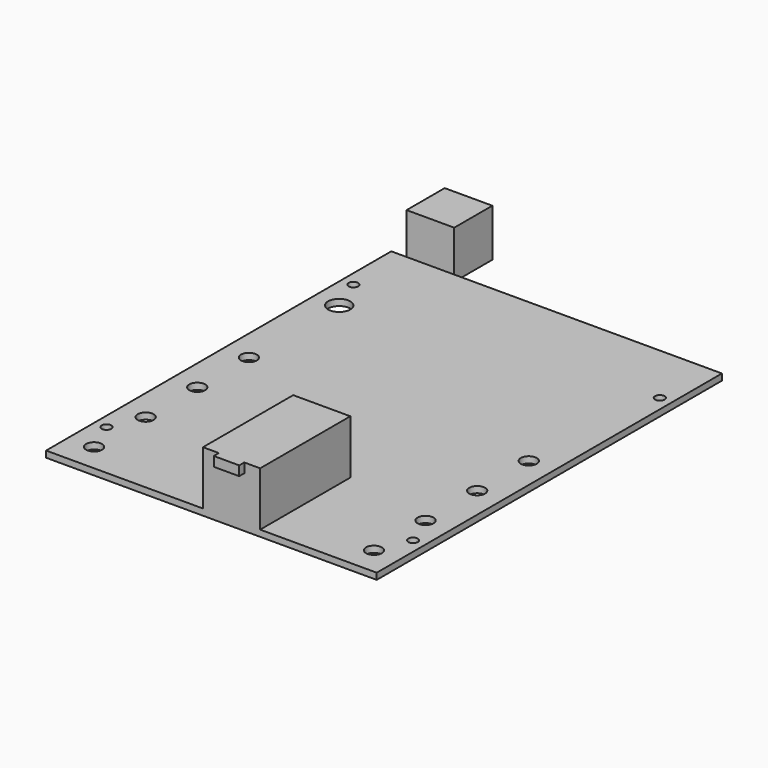
from build123d import *

# Parameters (mm, degrees)
F0_W          = 104.14
F0_H          = 135.89
F0_R          = 2.5
F0_R_2        = 1.5
F0_R_3        = 3.5
F1_DEPTH      = 2
F3_W          = 15
F3_H          = 15
F4_DEPTH      = 13
F4_DEPTH_BACK = 2
F5_W          = 18
F5_H          = 35.5
F6_DEPTH      = 17
F8_W          = 8
F8_H          = 3
F9_DEPTH      = 2


with BuildPart() as f1:
    # F0 (on Top) → F1 (new body)
    with BuildSketch(Plane.XY):
        Rectangle(F0_W, F0_H)
        with Locations((-44.07, -59.055)):
            Circle(F0_R, mode=Mode.SUBTRACT)
        with Locations((-48.26, -48.895)):
            Circle(F0_R_2, mode=Mode.SUBTRACT)
        with Locations((-44.07, -38.735)):
            Circle(F0_R, mode=Mode.SUBTRACT)
        with Locations((-44.07, -18.415)):
            Circle(F0_R, mode=Mode.SUBTRACT)
        with Locations((44.07, -59.055)):
            Circle(F0_R, mode=Mode.SUBTRACT)
        with Locations((48.26, -48.895)):
            Circle(F0_R_2, mode=Mode.SUBTRACT)
        with Locations((44.07, -38.735)):
            Circle(F0_R, mode=Mode.SUBTRACT)
        with Locations((44.07, -18.415)):
            Circle(F0_R, mode=Mode.SUBTRACT)
        with Locations((-44.07, 1.905)):
            Circle(F0_R, mode=Mode.SUBTRACT)
        with Locations((-44.07, 37.445)):
            Circle(F0_R_3, mode=Mode.SUBTRACT)
        with Locations((-48.26, 48.265)):
            Circle(F0_R_2, mode=Mode.SUBTRACT)
        with Locations((44.07, 1.905)):
            Circle(F0_R, mode=Mode.SUBTRACT)
        with Locations((48.26, 48.265)):
            Circle(F0_R_2, mode=Mode.SUBTRACT)
    extrude(amount=F1_DEPTH)

    # F3 (on offset) → F4 (join, two sides)
    with BuildSketch(Plane.XY.offset(2)) as f4_sk:
        with Locations((-39.74, 75.445)):
            Rectangle(F3_W, F3_H)
    extrude(amount=F4_DEPTH)
    extrude(f4_sk.sketch, amount=-F4_DEPTH_BACK)

    # F5 (on offset) → F6 (join)
    with BuildSketch(Plane.XY.offset(2)):
        with Locations((6.35, -50.195)):
            Rectangle(F5_W, F5_H)
    extrude(amount=F6_DEPTH)

    # F8 (on offset) → F9 (join)
    with BuildSketch(Plane.XZ.offset(67.945)):
        with Locations((6.35, 17.5)):
            Rectangle(F8_W, F8_H)
    extrude(amount=F9_DEPTH)


solid = f1.part
